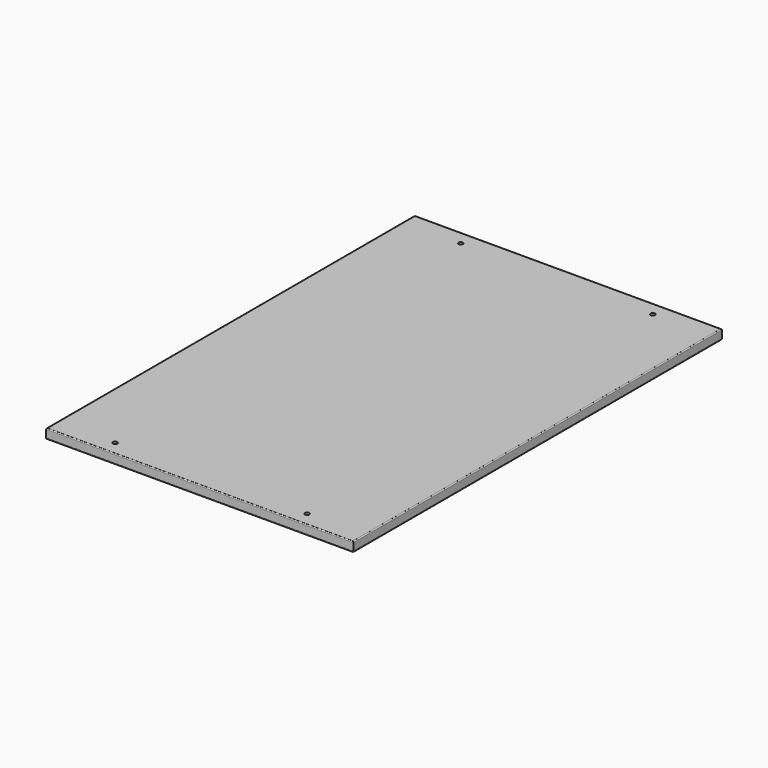
from build123d import *

# Parameters (mm, degrees)
F0_W     = 44.45
F0_H     = 609.6
F0_R     = 2.8575
F0_W_2   = 317.5
F1_DEPTH = 12.7
F2_R     = 1.27


with BuildPart() as f1:
    # F0 (on Top) → F1 (new body)
    with BuildSketch(Plane.XY):
        with Locations((180.975, -2.226482)):
            Rectangle(F0_W, F0_H)
        with Locations((184.15, -230.826482)):
            Circle(F0_R, mode=Mode.SUBTRACT)
        with Locations((184.15, 226.373518)):
            Circle(F0_R, mode=Mode.SUBTRACT)
        with Locations((0, -2.226482)):
            Rectangle(F0_W_2, F0_H)
        with Locations((-127, -287.976482)):
            Circle(F0_R, mode=Mode.SUBTRACT)
        with Locations((127, -287.976482)):
            Circle(F0_R, mode=Mode.SUBTRACT)
        with Locations((-127, 283.523518)):
            Circle(F0_R, mode=Mode.SUBTRACT)
        with Locations((127, 283.523518)):
            Circle(F0_R, mode=Mode.SUBTRACT)
        with Locations((-180.975, -2.226482)):
            Rectangle(F0_W, F0_H)
        with Locations((-184.15, -230.826482)):
            Circle(F0_R, mode=Mode.SUBTRACT)
        with Locations((-184.15, 226.373518)):
            Circle(F0_R, mode=Mode.SUBTRACT)
        with Locations((-184.15, 226.373518)):
            Circle(F0_R)
        with Locations((-184.15, -230.826482)):
            Circle(F0_R)
        with Locations((184.15, -230.826482)):
            Circle(F0_R)
        with Locations((184.15, 226.373518)):
            Circle(F0_R)
    extrude(amount=F1_DEPTH)

    # F2
    f2_edges = [f1.edges().sort_by_distance(p)[0] for p in [
        (0, 302.573518, 0),
        (-203.2, -2.226482, 0),
        (203.2, -2.226482, 0),
        (0, -307.026482, 0),
        (203.2, -2.226482, 12.7),
        (0, -307.026482, 12.7),
        (-203.2, -2.226482, 12.7),
        (0, 302.573518, 12.7),
    ]]
    fillet(f2_edges, radius=F2_R)


solid = f1.part
